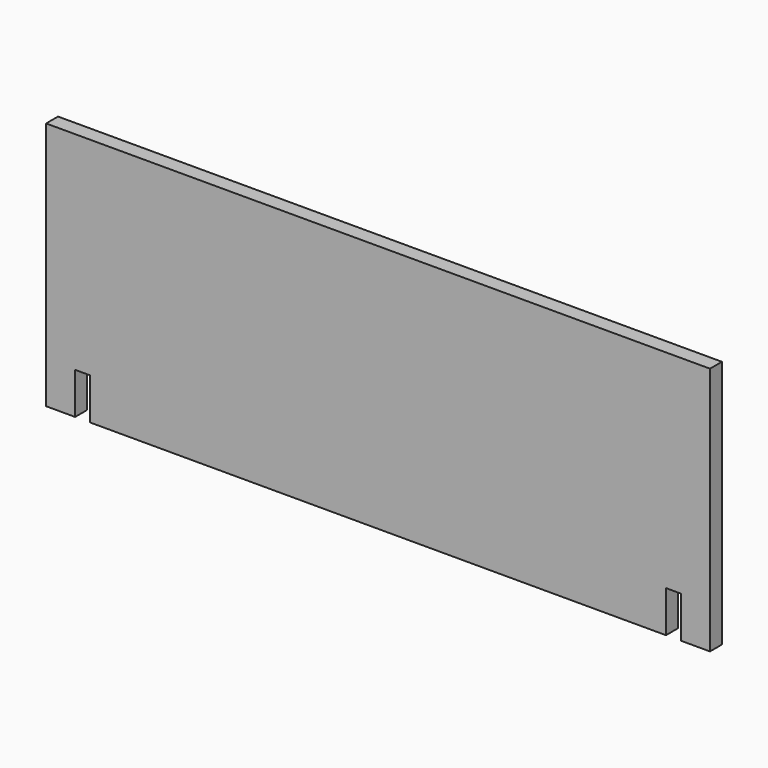
from build123d import *

# Parameters (mm, degrees)
PAD_DEPTH = 18


with BuildPart() as part:
    # Sketch → Pad (new body)
    with BuildSketch(Plane.XZ):
        Polygon((0, 0), (35, 0), (35, 50), (53, 50), (53, 0), (747, 0), (747, 50), (765, 50), (765, 0), (800, 0), (800, 300), (0, 300), align=None)
    extrude(amount=PAD_DEPTH)


solid = part.part
